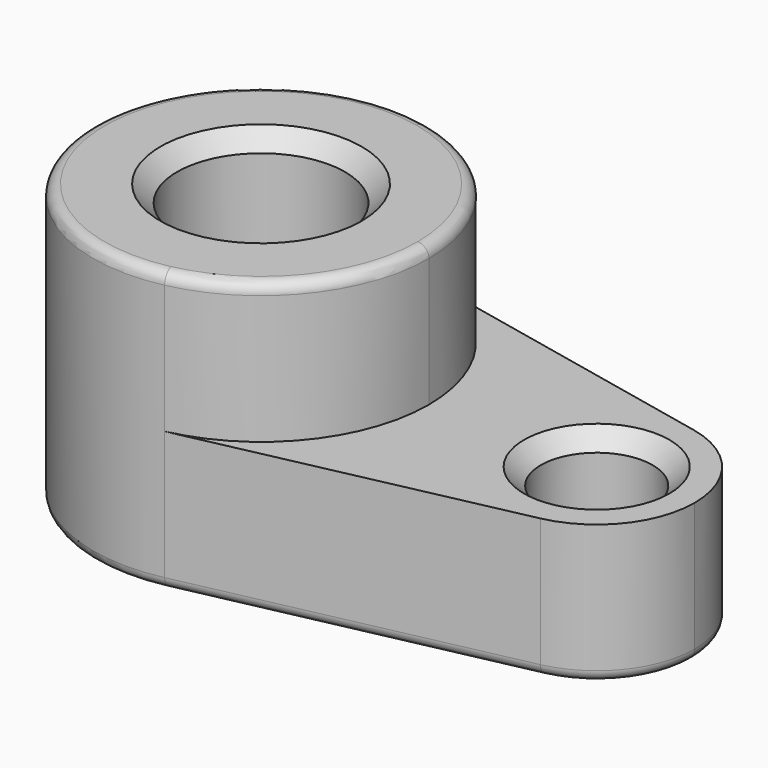
from build123d import *

# Parameters (mm, degrees)
F0_R     = 15
F0_R_2   = 10
F1_DEPTH = 25
F2_DEPTH = 50
F3_R     = 2
F4_SIZE  = 3


with BuildPart() as f1:
    # F0 (on Top) → F1 (new body)
    with BuildSketch(Plane.XY):
        with BuildLine():
            ThreePointArc((6.25, -29.341736), (23.318448, -18.874586), (30, 0))
            ThreePointArc((30, 0), (23.318448, 18.874586), (6.25, 29.341736))
            ThreePointArc((6.25, 29.341736), (-30, 0), (6.25, -29.341736))
        make_face()
        Circle(F0_R, mode=Mode.SUBTRACT)
        with BuildLine():
            ThreePointArc((6.25, 29.341736), (23.318448, 18.874586), (30, 0))
            ThreePointArc((30, 0), (23.318448, -18.874586), (6.25, -29.341736))
            Line((6.25, -29.341736), (63.645833, -17.116013))
            ThreePointArc((63.645833, -17.116013), (42.5, 0), (63.645833, 17.116013))
            Line((63.645833, 17.116013), (6.25, 29.341736))
        make_face()
        with BuildLine():
            ThreePointArc((77.5, 0), (73.602428, 11.010175), (63.645833, 17.116013))
            ThreePointArc((63.645833, 17.116013), (42.5, 0), (63.645833, -17.116013))
            ThreePointArc((63.645833, -17.116013), (73.602428, -11.010175), (77.5, 0))
        make_face()
        with Locations((60, 0)):
            Circle(F0_R_2, mode=Mode.SUBTRACT)
    extrude(amount=F1_DEPTH)

    # F0 (on Top) → F2 (join)
    with BuildSketch(Plane.XY):
        with BuildLine():
            ThreePointArc((6.25, -29.341736), (23.318448, -18.874586), (30, 0))
            ThreePointArc((30, 0), (23.318448, 18.874586), (6.25, 29.341736))
            ThreePointArc((6.25, 29.341736), (-30, 0), (6.25, -29.341736))
        make_face()
        Circle(F0_R, mode=Mode.SUBTRACT)
    extrude(amount=F2_DEPTH)

    # F3
    f3_edges = [f1.edges().sort_by_distance(p)[0] for p in [
        (-6.25, 29.341736, 50),
        (34.947917, -23.228875, 0),
    ]]
    fillet(f3_edges, radius=F3_R)

    # F4
    f4_edges = [f1.edges().sort_by_distance(p)[0] for p in [
        (50, 0, 25),
        (-15, 0, 50),
    ]]
    chamfer(f4_edges, length=F4_SIZE)


solid = f1.part
